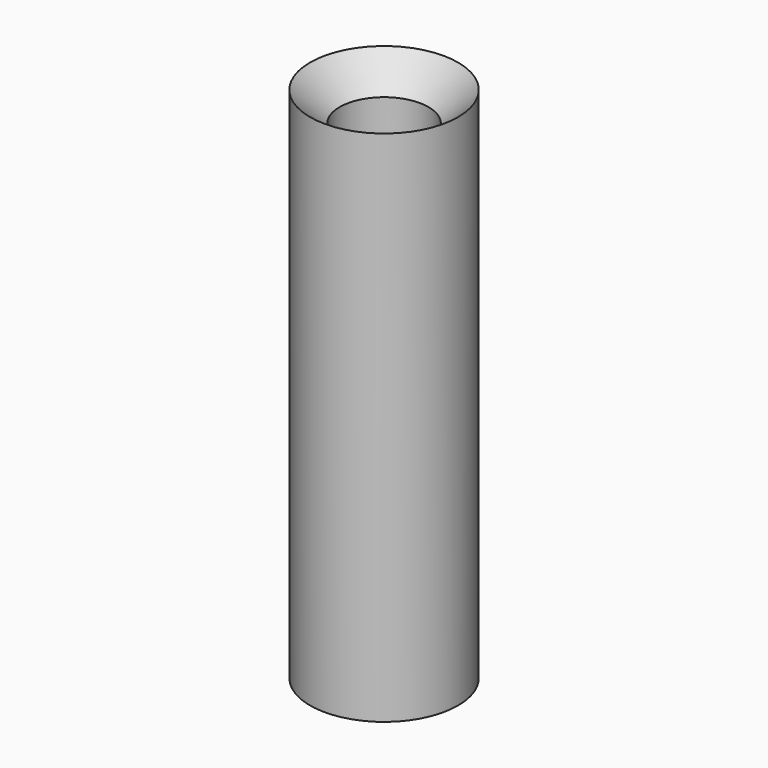
from build123d import *

# Parameters (mm, degrees)
F0_R           = 10
F1_DEPTH       = 70
F3_D           = 12
F3_CSINK_D     = 20
F3_CSINK_ANGLE = 90


with BuildPart() as f1:
    # F0 (on Top) → F1 (new body)
    with BuildSketch(Plane.XY):
        Circle(F0_R)
    extrude(amount=F1_DEPTH)

    # F3 (through all)
    with Locations(Plane.XY.offset(70)):
        with Locations((0, 0)):
            CounterSinkHole(F3_D / 2, F3_CSINK_D / 2, counter_sink_angle=F3_CSINK_ANGLE)


solid = f1.part
